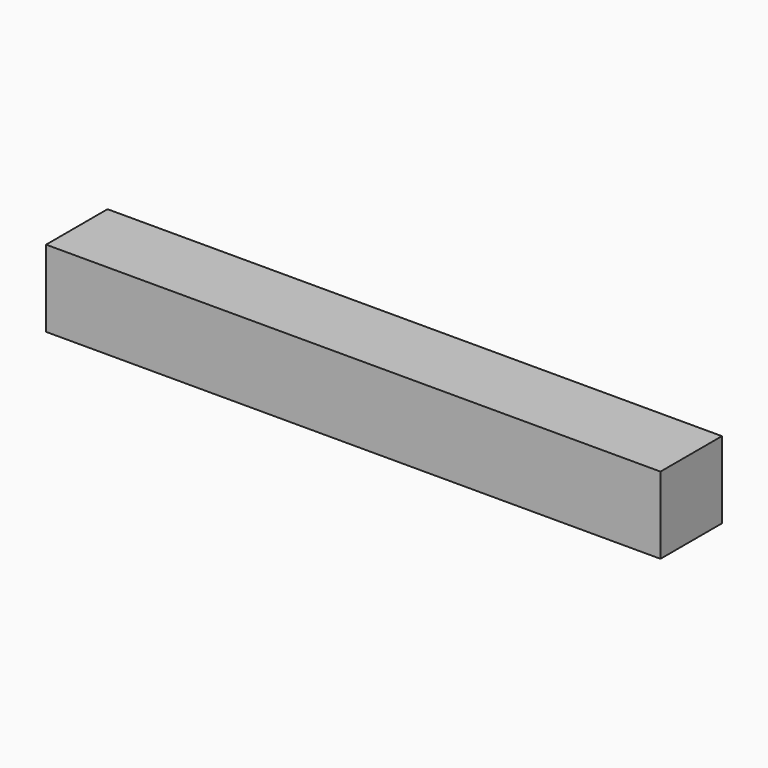
from build123d import *

# Parameters (mm, degrees)
BOX_W     = 203.2
BOX_H     = 25.4
BOX_DEPTH = 25.4


with BuildPart() as part:
    # Box → Box (new body)
    with BuildSketch(Plane.XY):
        with Locations((101.6, 12.7)):
            Rectangle(BOX_W, BOX_H)
    extrude(amount=BOX_DEPTH)


solid = part.part
